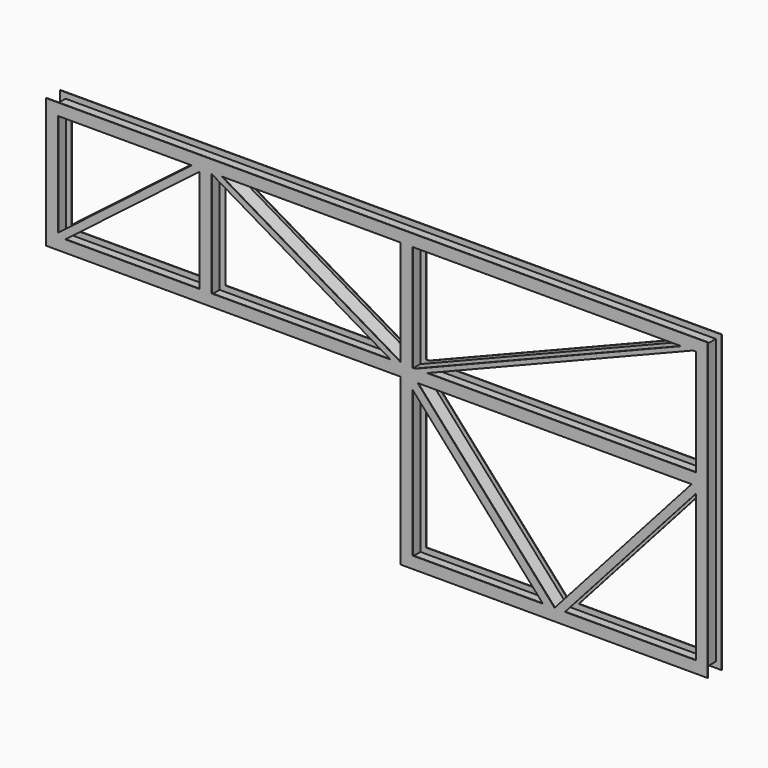
from build123d import *


with BuildPart() as f3:
    # F3: sweep along a path in F1
    with BuildLine(Plane.XZ) as f3_path:
        Line((0, -4267.2), (0, 0))
        Line((0, 0), (-9144, 0))
        Line((-9144, 0), (-9144, 3048))
        Line((-9144, 3048), (0, 3048))
        Line((0, 3048), (7620, 3048))
        Line((7620, 3048), (7620, -4267.2))
        Line((7620, -4267.2), (0, -4267.2))
    # F2 (on Top) → F3 (sweep)
    with BuildSketch(Plane.XY):
        Polygon((152.4, 228.6), (6.35, 228.6), (0, 228.6), (-6.35, 228.6), (-152.4, 228.6), (-152.4, 215.9), (-6.35, 215.9), (-6.35, -215.9), (-152.4, -215.9), (-152.4, -228.6), (-6.35, -228.6), (6.35, -228.6), (152.4, -228.6), (152.4, -215.9), (6.35, -215.9), (6.35, 215.9), (152.4, 215.9), align=None)
    sweep(path=f3_path.line, transition=Transition.RIGHT)

    # F4: sweep along a path in F0
    with BuildLine(Plane.XZ) as f4_path:
        Line((0, 0), (0, 3048))
    # F2 (on Top) → F4 (sweep)
    with BuildSketch(Plane.XY):
        Polygon((152.4, 228.6), (6.35, 228.6), (0, 228.6), (-6.35, 228.6), (-152.4, 228.6), (-152.4, 215.9), (-6.35, 215.9), (-6.35, -215.9), (-152.4, -215.9), (-152.4, -228.6), (-6.35, -228.6), (6.35, -228.6), (152.4, -228.6), (152.4, -215.9), (6.35, -215.9), (6.35, 215.9), (152.4, 215.9), align=None)
    sweep(path=f4_path.line)

    # F5: sweep along a path in F0
    with BuildLine(Plane.XZ) as f5_path:
        Line((0, 0), (7620, 3048))
    # F2 (on Top) → F5 (sweep)
    with BuildSketch(Plane.XY):
        Polygon((152.4, 228.6), (6.35, 228.6), (0, 228.6), (-6.35, 228.6), (-152.4, 228.6), (-152.4, 215.9), (-6.35, 215.9), (-6.35, -215.9), (-152.4, -215.9), (-152.4, -228.6), (-6.35, -228.6), (6.35, -228.6), (152.4, -228.6), (152.4, -215.9), (6.35, -215.9), (6.35, 215.9), (152.4, 215.9), align=None)
    sweep(path=f5_path.line)

    # F6: sweep along a path in F0
    with BuildLine(Plane.XZ) as f6_path:
        Line((-5181.6, 3048), (0, 0))
    # F2 (on Top) → F6 (sweep)
    with BuildSketch(Plane.XY):
        Polygon((152.4, 228.6), (6.35, 228.6), (0, 228.6), (-6.35, 228.6), (-152.4, 228.6), (-152.4, 215.9), (-6.35, 215.9), (-6.35, -215.9), (-152.4, -215.9), (-152.4, -228.6), (-6.35, -228.6), (6.35, -228.6), (152.4, -228.6), (152.4, -215.9), (6.35, -215.9), (6.35, 215.9), (152.4, 215.9), align=None)
    sweep(path=f6_path.line)

    # F7: sweep along a path in F0
    with BuildLine(Plane.XZ) as f7_path:
        Line((0, 0), (3810, -4267.2))
    # F2 (on Top) → F7 (sweep)
    with BuildSketch(Plane.XY):
        Polygon((152.4, 228.6), (6.35, 228.6), (0, 228.6), (-6.35, 228.6), (-152.4, 228.6), (-152.4, 215.9), (-6.35, 215.9), (-6.35, -215.9), (-152.4, -215.9), (-152.4, -228.6), (-6.35, -228.6), (6.35, -228.6), (152.4, -228.6), (152.4, -215.9), (6.35, -215.9), (6.35, 215.9), (152.4, 215.9), align=None)
    sweep(path=f7_path.line)

    # F9: sweep along a path in F0
    with BuildLine(Plane.XZ) as f9_path:
        Line((-5181.6, 0), (-5181.6, 3048))
    # F8 (on face) → F9 (sweep)
    with BuildSketch(Plane.XY.offset(3054.35)):
        Polygon((-5029.7472383198, 228.6), (-5175.7972383198, 228.6), (-5188.4972383198, 228.6), (-5334.5472383198, 228.6), (-5334.5472383198, 215.9), (-5188.4972383198, 215.9), (-5188.4972383198, -215.9), (-5334.5472383198, -215.9), (-5334.5472383198, -228.6), (-5188.4972383198, -228.6), (-5175.7972383198, -228.6), (-5029.7472383198, -228.6), (-5029.7472383198, -215.9), (-5175.7972383198, -215.9), (-5175.7972383198, 215.9), (-5029.7472383198, 215.9), align=None)
    sweep(path=f9_path.line)

    # F10: sweep along a path in F0
    with BuildLine(Plane.XZ) as f10_path:
        Line((-5181.6, 3048), (-9144, 0))
    # F8 (on face) → F10 (sweep)
    with BuildSketch(Plane.XY.offset(3054.35)):
        Polygon((-5029.7472383198, 228.6), (-5175.7972383198, 228.6), (-5188.4972383198, 228.6), (-5334.5472383198, 228.6), (-5334.5472383198, 215.9), (-5188.4972383198, 215.9), (-5188.4972383198, -215.9), (-5334.5472383198, -215.9), (-5334.5472383198, -228.6), (-5188.4972383198, -228.6), (-5175.7972383198, -228.6), (-5029.7472383198, -228.6), (-5029.7472383198, -215.9), (-5175.7972383198, -215.9), (-5175.7972383198, 215.9), (-5029.7472383198, 215.9), align=None)
    sweep(path=f10_path.line)

    # F12: sweep along a path in F0
    with BuildLine(Plane.XZ) as f12_path:
        Line((7620, 0), (0, 0))
    # F11 (on face) → F12 (sweep)
    with BuildSketch(Plane.YZ.offset(7626.35)):
        Polygon((228.6, -152.4), (228.6, -6.35), (228.6, 0), (228.6, 6.35), (228.6, 152.4), (215.9, 152.4), (215.9, 6.35), (-215.9, 6.35), (-215.9, 152.4), (-228.6, 152.4), (-228.6, 6.35), (-228.6, -6.35), (-228.6, -152.4), (-215.9, -152.4), (-215.9, -6.35), (215.9, -6.35), (215.9, -152.4), align=None)
    sweep(path=f12_path.line)

    # F13: sweep along a path in F0
    with BuildLine(Plane.XZ) as f13_path:
        Line((3810, -4267.2), (7620, 0))
    # F11 (on face) → F13 (sweep)
    with BuildSketch(Plane.YZ.offset(7626.35)):
        Polygon((228.6, -152.4), (228.6, -6.35), (228.6, 0), (228.6, 6.35), (228.6, 152.4), (215.9, 152.4), (215.9, 6.35), (-215.9, 6.35), (-215.9, 152.4), (-228.6, 152.4), (-228.6, 6.35), (-228.6, -6.35), (-228.6, -152.4), (-215.9, -152.4), (-215.9, -6.35), (215.9, -6.35), (215.9, -152.4), align=None)
    sweep(path=f13_path.line)


solid = f3.part
